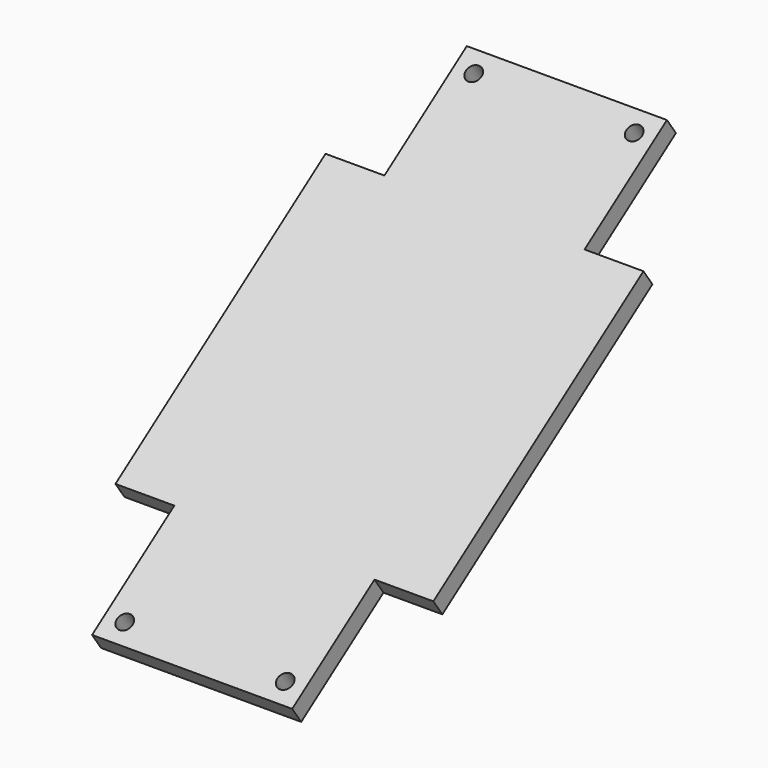
from build123d import *

# Parameters (mm, degrees)
CYLINDER083_R     = 2
CYLINDER083_DEPTH = 10
ARRAY001_X_COUNT  = 2
ARRAY001_X_PITCH  = 40.9
ARRAY001_Y_COUNT  = 2
ARRAY001_Y_PITCH  = 135.7
BOX080_W          = 51
BOX080_H          = 145.7
BOX080_DEPTH      = 5
BOX079_W          = 81
BOX079_H          = 81.68
BOX079_DEPTH      = 5
CUT086_ROLL_ANGLE = 35


with BuildPart() as array001:
    # Cylinder083 → Cylinder083 (new body)
    with BuildSketch(Plane(origin=(20.55, -5, 0), x_dir=(1, 0, 0), z_dir=(0, 0, 1))):
        Circle(CYLINDER083_R)
    extrude(amount=CYLINDER083_DEPTH)

    # Array001 X: Array001 ×2


with BuildPart() as array001_1:
    add(array001.part)
    with Locations(*[(i * ARRAY001_X_PITCH, 0, 0) for i in range(1, ARRAY001_X_COUNT)]):
        add(array001.part)

    # Array001 Y: Array001 ×2


with BuildPart() as array001_2:
    add(array001_1.part)
    with Locations(*[(0, i * ARRAY001_Y_PITCH, 0) for i in range(1, ARRAY001_Y_COUNT)]):
        add(array001_1.part)


with BuildPart() as array001_3:
    # Array001 placement: moved
    add(array001_2.part.moved(Location((0, 0, -2))))


with BuildPart() as cube028:
    # Box080 → Box080 (new body)
    with BuildSketch(Plane(origin=(15.5, -9.9875, 0), x_dir=(1, 0, 0), z_dir=(0, 0, 1))):
        with Locations((25.5, 72.85)):
            Rectangle(BOX080_W, BOX080_H)
    extrude(amount=BOX080_DEPTH)


with BuildPart() as tablet_holder_plate:
    # Box079 → Box079 (new body)
    with BuildSketch(Plane(origin=(0.5, 22, 0), x_dir=(1, 0, 0), z_dir=(0, 0, 1))):
        with Locations((40.5, 40.84)):
            Rectangle(BOX079_W, BOX079_H)
    extrude(amount=BOX079_DEPTH)

    # Fusion138: union Cube028
    add(cube028.part)

    # Cut086: cut Array001
    add(array001_3.part, mode=Mode.SUBTRACT)


with BuildPart() as tablet_holder_plate_1:
    # Cut086 roll: moved
    add(tablet_holder_plate.part.rotate(Axis((0, 0, 0), (1, 0, 0)), CUT086_ROLL_ANGLE))


with BuildPart() as tablet_holder_plate_2:
    # Cut086 placement: moved
    add(tablet_holder_plate_1.part.moved(Location((-37.5, 80.75, 1337.2))))


solid = tablet_holder_plate_2.part
